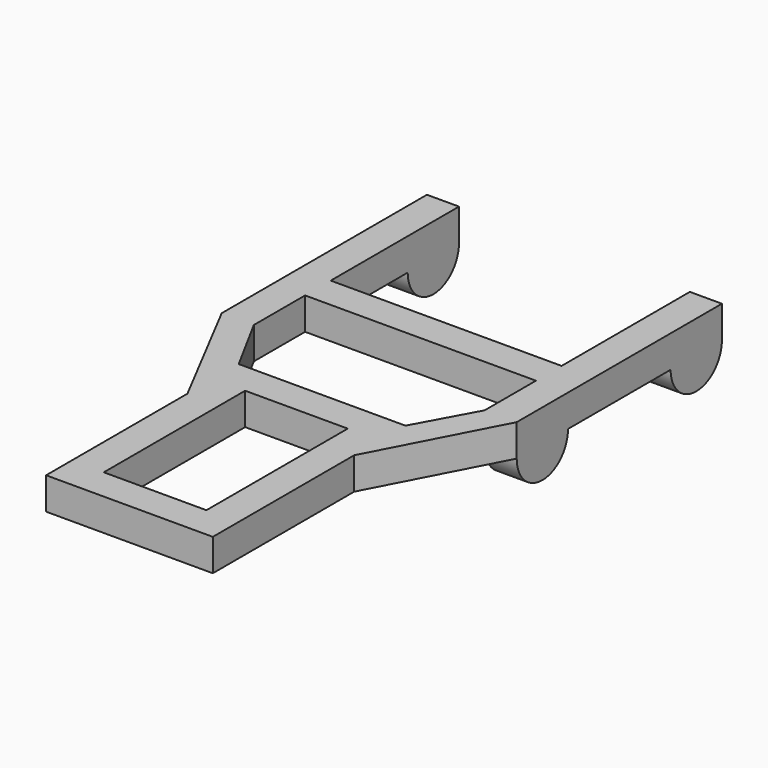
from build123d import *

# Parameters (mm, degrees)
F0_W     = 45.72
F0_H     = 6.35
F0_W_2   = 20.32
F0_H_2   = 34.987604
F1_DEPTH = 6.35
F3_DEPTH = 6.35
F5_DEPTH = 6.35


with BuildPart() as f1:
    # F0 (on Top) → F1 (new body)
    with BuildSketch(Plane.XY):
        Polygon((-22.86, 50.8), (-29.21, 50.8), (-29.21, 0), (-22.86, 0), (-22.86, 12.7), (-22.86, 19.05), align=None)
        Polygon((-22.86, 0), (-29.21, 0), (-16.51, -24.362533), (-16.51, -11.662533), align=None)
        with Locations((0, 15.875)):
            Rectangle(F0_W, F0_H)
        Polygon((-16.51, -11.662533), (-16.51, -24.362533), (-16.51, -59.350137), (16.51, -59.350137), (16.51, -24.362533), (16.51, -11.662533), align=None)
        with Locations((0, -35.506335)):
            Rectangle(F0_W_2, F0_H_2, mode=Mode.SUBTRACT)
        Polygon((22.86, 50.8), (22.86, 19.05), (22.86, 12.7), (22.86, 0), (29.21, 0), (29.21, 50.8), align=None)
        Polygon((22.86, 0), (16.51, -11.662533), (16.51, -24.362533), (29.21, 0), align=None)
    extrude(amount=F1_DEPTH)

    # F2 (on face) → F3 (join)
    with BuildSketch(Plane.YZ.offset(29.21)):
        with BuildLine():
            Line((50.8, 0), (38.1, 0))
            ThreePointArc((38.1, 0), (44.45, -6.35), (50.8, 0))
        make_face()
        with BuildLine():
            Line((12.7, 0), (0, 0))
            ThreePointArc((0, 0), (6.35, -6.35), (12.7, 0))
        make_face()
    extrude(amount=-F3_DEPTH)

    # F4 (on face) → F5 (join)
    with BuildSketch(Plane(origin=(-29.21, 0, 0), x_dir=(0, -1, 0), z_dir=(-1, 0, 0))):
        with BuildLine():
            Line((-38.1, 0), (-50.8, 0))
            ThreePointArc((-50.8, 0), (-44.45, -6.35), (-38.1, 0))
        make_face()
    extrude(amount=-F5_DEPTH)


solid = f1.part
